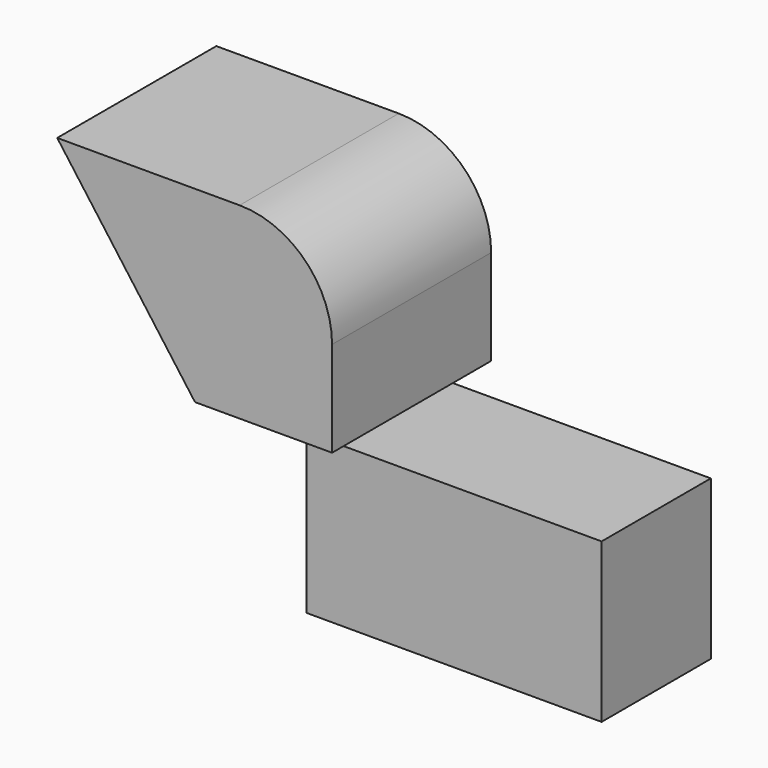
from build123d import *

# Parameters (mm, degrees)
F1_DEPTH = 81.788
F2_R     = 38.019035
F3_W     = 121.406894
F3_H     = 65.362315
F4_DEPTH = 56.134


with BuildPart() as f1:
    # F0 (on Front) → F1 (new body)
    with BuildSketch(Plane.XZ):
        Polygon((56.381635, 37.797861), (-56.66006, 37.797861), (0, -39.431129), (56.381635, -39.431129), align=None)
    extrude(amount=F1_DEPTH)

    # F2
    f2_edges = [f1.edges().sort_by_distance(p)[0] for p in [
        (56.381635, -40.894, 37.797861),
    ]]
    fillet(f2_edges, radius=F2_R)


with BuildPart() as f4:
    # F3 (on Front) → F4 (new body)
    with BuildSketch(Plane.XZ):
        with Locations((86.007008, -85.262814)):
            Rectangle(F3_W, F3_H)
    extrude(amount=F4_DEPTH)


solid = Compound([f1.part, f4.part])
